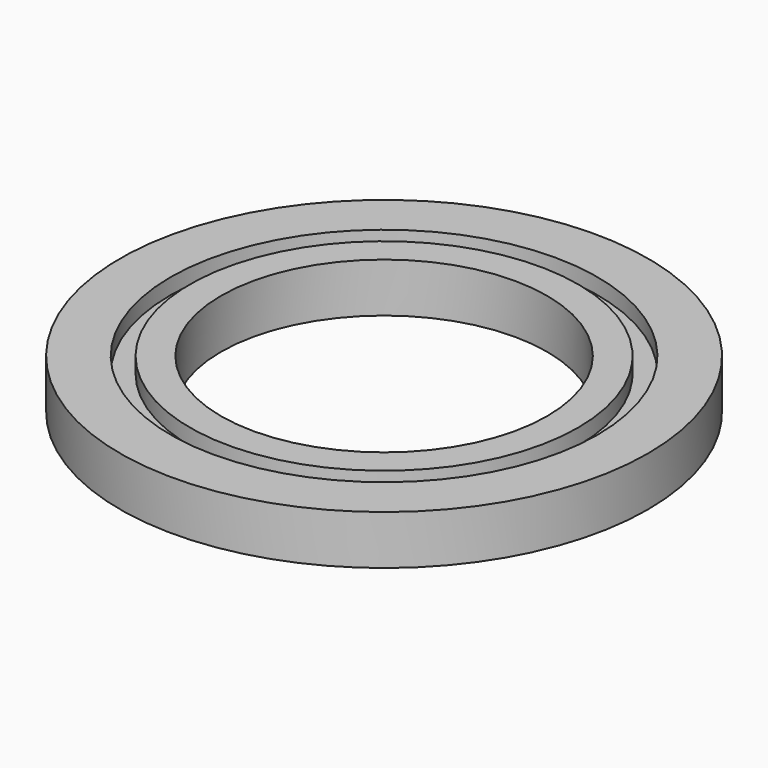
from build123d import *

# Parameters (mm, degrees)
F0_R     = 34
F0_R_2   = 27.5
F0_R_3   = 25
F0_R_4   = 21
F1_DEPTH = 6.35
F2_DEPTH = 4.318


with BuildPart() as f1:
    # F0 (on Top) → F1 (new body)
    with BuildSketch(Plane.XY):
        Circle(F0_R)
        Circle(F0_R_2, mode=Mode.SUBTRACT)
        Circle(F0_R_3)
        Circle(F0_R_4, mode=Mode.SUBTRACT)
    extrude(amount=F1_DEPTH)


with BuildPart() as f2:
    # F0 (on Top) → F2 (new body)
    with BuildSketch(Plane.XY):
        Circle(F0_R_2)
        Circle(F0_R_3, mode=Mode.SUBTRACT)
    extrude(amount=F2_DEPTH)


solid = Compound([f1.part, f2.part])
